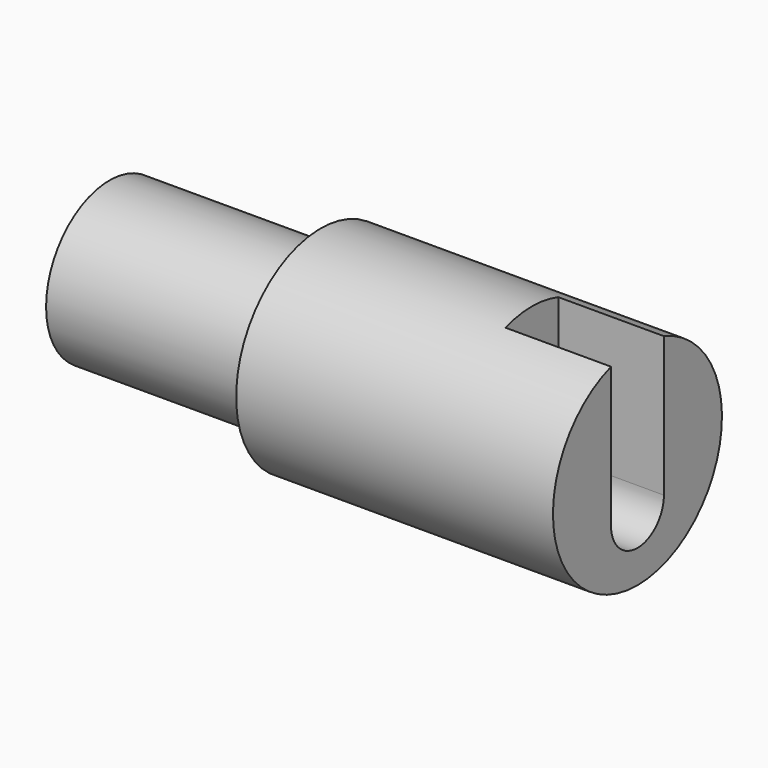
from build123d import *

# Parameters (mm, degrees)
F0_R     = 12.7
F1_DEPTH = 25.4
F3_DEPTH = 12.7
F4_R     = 9.525
F5_DEPTH = 25.4
F7_D     = 2.54
F7_DEPTH = 6.35
F7_TIP   = 0.7630929862
F9_DEPTH = 12.7


with BuildPart() as f1:
    # F0 (on Right) → F1 (new body)
    with BuildSketch(Plane.YZ):
        Circle(F0_R)
    extrude(amount=F1_DEPTH)

    # F2 (on face) → F3 (join)
    with BuildSketch(Plane.YZ.offset(25.4)):
        with BuildLine():
            ThreePointArc((3.9751, 0), (0, -3.9751), (-3.9751, 0))
            Line((-3.9751, 0), (-3.9751, 12.0618646979))
            ThreePointArc((-3.9751, 12.0618646979), (0, -12.7), (3.9751, 12.0618646979))
            Line((3.9751, 12.0618646979), (3.9751, 0))
        make_face()
    extrude(amount=F3_DEPTH)

    # F4 (on face) → F5 (join)
    with BuildSketch(Plane(origin=(0, 0, 0), x_dir=(0, -1, 0), z_dir=(-1, 0, 0))):
        Circle(F4_R)
    extrude(amount=F5_DEPTH)

    # F7
    with Locations(Plane.YZ.offset(25.4)):
        with Locations((0, 0)):
            Hole(F7_D / 2, depth=F7_DEPTH)
            with Locations((0, 0, -(F7_DEPTH + F7_TIP / 2))):  # 118° drill point
                Cone(0, F7_D / 2, F7_TIP, mode=Mode.SUBTRACT)


with BuildPart() as f9:
    # F8 (on face) → F9 (new body)
    with BuildSketch(Plane.YZ.offset(38.1)):
        with BuildLine():
            Line((-3.9751, 0), (-3.9751, -4.7752))
            ThreePointArc((-3.9751, -4.7752), (0, -8.7503), (3.9751, -4.7752))
            Line((3.9751, -4.7752), (3.9751, 0))
            ThreePointArc((3.9751, 0), (0, -3.9751), (-3.9751, 0))
        make_face()
    extrude(amount=-F9_DEPTH)


with BuildPart() as f1_1:
    add(f1.part)

    # F10: cut F9
    add(f9.part, mode=Mode.SUBTRACT)


solid = f1_1.part
